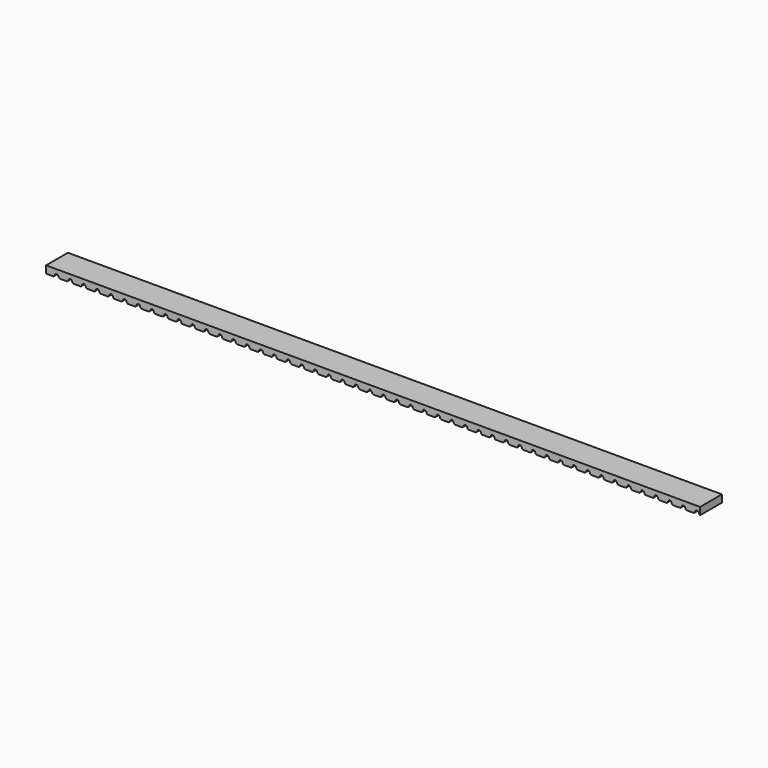
from build123d import *

# Parameters (mm, degrees)
F1_DEPTH = 10


with BuildPart() as f1:
    # F0 (on Front) → F1 (new body)
    with BuildSketch(Plane.XZ):
        with BuildLine():
            Line((-120.7614177906, 0), (-120.7614177906, -0.3))
            Line((-120.7614177906, -0.3), (-118.109419136, -0.3))
            ThreePointArc((-118.109419136, -0.3), (-117.8092630239, -0.1360718897), (-117.6130970856, 0.1440799292))
            add(Edge.make_bspline(
                [(-116.9149596381, 0.9), (-117.476127318, 0.9), (-117.6130970856, 0.1440799292)],
                knots=[0, 0, 0, 1.3242255138, 1.3242255138, 1.3242255138], degree=2, weights=[1, 0.7886951024, 1]))
            add(Edge.make_bspline(
                [(-116.1876432998, 0.144079929), (-116.3303377651, 0.9), (-116.9149596381, 0.9)],
                knots=[4.9589597931, 4.9589597931, 4.9589597931, 6.2831853072, 6.2831853072, 6.2831853072], degree=2, weights=[1, 0.7886951024, 1]))
            ThreePointArc((-116.1876432998, 0.144079929), (-116.0218996974, -0.1238064016), (-115.7607678461, -0.3))
            Line((-115.7607678461, -0.3), (-113.109419136, -0.3))
            ThreePointArc((-113.109419136, -0.3), (-112.8092630239, -0.1360718897), (-112.6130970856, 0.1440799292))
            add(Edge.make_bspline(
                [(-111.9149596381, 0.9), (-112.476127318, 0.9), (-112.6130970856, 0.1440799292)],
                knots=[0, 0, 0, 1.3242255138, 1.3242255138, 1.3242255138], degree=2, weights=[1, 0.7886951024, 1]))
            add(Edge.make_bspline(
                [(-111.1876432998, 0.144079929), (-111.3303377651, 0.9), (-111.9149596381, 0.9)],
                knots=[4.9589597931, 4.9589597931, 4.9589597931, 6.2831853072, 6.2831853072, 6.2831853072], degree=2, weights=[1, 0.7886951024, 1]))
            ThreePointArc((-111.1876432998, 0.144079929), (-111.0218996974, -0.1238064016), (-110.7607678461, -0.3))
            Line((-110.7607678461, -0.3), (-108.109419136, -0.3))
            ThreePointArc((-108.109419136, -0.3), (-107.8092630239, -0.1360718897), (-107.6130970856, 0.1440799292))
            add(Edge.make_bspline(
                [(-106.9149596381, 0.9), (-107.476127318, 0.9), (-107.6130970856, 0.1440799292)],
                knots=[0, 0, 0, 1.3242255138, 1.3242255138, 1.3242255138], degree=2, weights=[1, 0.7886951024, 1]))
            add(Edge.make_bspline(
                [(-106.1876432998, 0.144079929), (-106.3303377651, 0.9), (-106.9149596381, 0.9)],
                knots=[4.9589597931, 4.9589597931, 4.9589597931, 6.2831853072, 6.2831853072, 6.2831853072], degree=2, weights=[1, 0.7886951024, 1]))
            ThreePointArc((-106.1876432998, 0.144079929), (-106.0218996974, -0.1238064016), (-105.7607678461, -0.3))
            Line((-105.7607678461, -0.3), (-103.109419136, -0.3))
            ThreePointArc((-103.109419136, -0.3), (-102.8092630239, -0.1360718897), (-102.6130970856, 0.1440799292))
            add(Edge.make_bspline(
                [(-101.9149596381, 0.9), (-102.476127318, 0.9), (-102.6130970856, 0.1440799292)],
                knots=[0, 0, 0, 1.3242255138, 1.3242255138, 1.3242255138], degree=2, weights=[1, 0.7886951024, 1]))
            add(Edge.make_bspline(
                [(-101.1876432998, 0.144079929), (-101.3303377651, 0.9), (-101.9149596381, 0.9)],
                knots=[4.9589597931, 4.9589597931, 4.9589597931, 6.2831853072, 6.2831853072, 6.2831853072], degree=2, weights=[1, 0.7886951024, 1]))
            ThreePointArc((-101.1876432998, 0.144079929), (-101.0218996974, -0.1238064016), (-100.7607678461, -0.3))
            Line((-100.7607678461, -0.3), (-98.109419136, -0.3))
            ThreePointArc((-98.109419136, -0.3), (-97.8092630239, -0.1360718897), (-97.6130970856, 0.1440799292))
            add(Edge.make_bspline(
                [(-96.9149596381, 0.9), (-97.476127318, 0.9), (-97.6130970856, 0.1440799292)],
                knots=[0, 0, 0, 1.3242255138, 1.3242255138, 1.3242255138], degree=2, weights=[1, 0.7886951024, 1]))
            add(Edge.make_bspline(
                [(-96.1876432998, 0.144079929), (-96.3303377651, 0.9), (-96.9149596381, 0.9)],
                knots=[4.9589597931, 4.9589597931, 4.9589597931, 6.2831853072, 6.2831853072, 6.2831853072], degree=2, weights=[1, 0.7886951024, 1]))
            ThreePointArc((-96.1876432998, 0.144079929), (-96.0218996974, -0.1238064016), (-95.7607678461, -0.3))
            Line((-95.7607678461, -0.3), (-93.109419136, -0.3))
            ThreePointArc((-93.109419136, -0.3), (-92.8092630239, -0.1360718897), (-92.6130970856, 0.1440799292))
            add(Edge.make_bspline(
                [(-91.9149596381, 0.9), (-92.476127318, 0.9), (-92.6130970856, 0.1440799292)],
                knots=[0, 0, 0, 1.3242255138, 1.3242255138, 1.3242255138], degree=2, weights=[1, 0.7886951024, 1]))
            add(Edge.make_bspline(
                [(-91.1876432998, 0.144079929), (-91.3303377651, 0.9), (-91.9149596381, 0.9)],
                knots=[4.9589597931, 4.9589597931, 4.9589597931, 6.2831853072, 6.2831853072, 6.2831853072], degree=2, weights=[1, 0.7886951024, 1]))
            ThreePointArc((-91.1876432998, 0.144079929), (-91.0218996974, -0.1238064016), (-90.7607678461, -0.3))
            Line((-90.7607678461, -0.3), (-88.109419136, -0.3))
            ThreePointArc((-88.109419136, -0.3), (-87.8092630239, -0.1360718897), (-87.6130970856, 0.1440799292))
            add(Edge.make_bspline(
                [(-86.9149596381, 0.9), (-87.476127318, 0.9), (-87.6130970856, 0.1440799292)],
                knots=[0, 0, 0, 1.3242255138, 1.3242255138, 1.3242255138], degree=2, weights=[1, 0.7886951024, 1]))
            add(Edge.make_bspline(
                [(-86.1876432998, 0.144079929), (-86.3303377651, 0.9), (-86.9149596381, 0.9)],
                knots=[4.9589597931, 4.9589597931, 4.9589597931, 6.2831853072, 6.2831853072, 6.2831853072], degree=2, weights=[1, 0.7886951024, 1]))
            ThreePointArc((-86.1876432998, 0.144079929), (-86.0218996974, -0.1238064016), (-85.7607678461, -0.3))
            Line((-85.7607678461, -0.3), (-83.109419136, -0.3))
            ThreePointArc((-83.109419136, -0.3), (-82.8092630239, -0.1360718897), (-82.6130970856, 0.1440799292))
            add(Edge.make_bspline(
                [(-81.9149596381, 0.9), (-82.476127318, 0.9), (-82.6130970856, 0.1440799292)],
                knots=[0, 0, 0, 1.3242255138, 1.3242255138, 1.3242255138], degree=2, weights=[1, 0.7886951024, 1]))
            add(Edge.make_bspline(
                [(-81.1876432998, 0.144079929), (-81.3303377651, 0.9), (-81.9149596381, 0.9)],
                knots=[4.9589597931, 4.9589597931, 4.9589597931, 6.2831853072, 6.2831853072, 6.2831853072], degree=2, weights=[1, 0.7886951024, 1]))
            ThreePointArc((-81.1876432998, 0.144079929), (-81.0218996974, -0.1238064016), (-80.7607678461, -0.3))
            Line((-80.7607678461, -0.3), (-78.109419136, -0.3))
            ThreePointArc((-78.109419136, -0.3), (-77.8092630239, -0.1360718897), (-77.6130970856, 0.1440799292))
            add(Edge.make_bspline(
                [(-76.9149596381, 0.9), (-77.476127318, 0.9), (-77.6130970856, 0.1440799292)],
                knots=[0, 0, 0, 1.3242255138, 1.3242255138, 1.3242255138], degree=2, weights=[1, 0.7886951024, 1]))
            add(Edge.make_bspline(
                [(-76.1876432998, 0.144079929), (-76.3303377651, 0.9), (-76.9149596381, 0.9)],
                knots=[4.9589597931, 4.9589597931, 4.9589597931, 6.2831853072, 6.2831853072, 6.2831853072], degree=2, weights=[1, 0.7886951024, 1]))
            ThreePointArc((-76.1876432998, 0.144079929), (-76.0218996974, -0.1238064016), (-75.7607678461, -0.3))
            Line((-75.7607678461, -0.3), (-73.109419136, -0.3))
            ThreePointArc((-73.109419136, -0.3), (-72.8092630239, -0.1360718897), (-72.6130970856, 0.1440799292))
            add(Edge.make_bspline(
                [(-71.9149596381, 0.9), (-72.476127318, 0.9), (-72.6130970856, 0.1440799292)],
                knots=[0, 0, 0, 1.3242255138, 1.3242255138, 1.3242255138], degree=2, weights=[1, 0.7886951024, 1]))
            add(Edge.make_bspline(
                [(-71.1876432998, 0.144079929), (-71.3303377651, 0.9), (-71.9149596381, 0.9)],
                knots=[4.9589597931, 4.9589597931, 4.9589597931, 6.2831853072, 6.2831853072, 6.2831853072], degree=2, weights=[1, 0.7886951024, 1]))
            ThreePointArc((-71.1876432998, 0.144079929), (-71.0218996974, -0.1238064016), (-70.7607678461, -0.3))
            Line((-70.7607678461, -0.3), (-68.109419136, -0.3))
            ThreePointArc((-68.109419136, -0.3), (-67.8092630239, -0.1360718897), (-67.6130970856, 0.1440799292))
            add(Edge.make_bspline(
                [(-66.9149596381, 0.9), (-67.476127318, 0.9), (-67.6130970856, 0.1440799292)],
                knots=[0, 0, 0, 1.3242255138, 1.3242255138, 1.3242255138], degree=2, weights=[1, 0.7886951024, 1]))
            add(Edge.make_bspline(
                [(-66.1876432998, 0.144079929), (-66.3303377651, 0.9), (-66.9149596381, 0.9)],
                knots=[4.9589597931, 4.9589597931, 4.9589597931, 6.2831853072, 6.2831853072, 6.2831853072], degree=2, weights=[1, 0.7886951024, 1]))
            ThreePointArc((-66.1876432998, 0.144079929), (-66.0218996974, -0.1238064016), (-65.7607678461, -0.3))
            Line((-65.7607678461, -0.3), (-63.109419136, -0.3))
            ThreePointArc((-63.109419136, -0.3), (-62.8092630239, -0.1360718897), (-62.6130970856, 0.1440799292))
            add(Edge.make_bspline(
                [(-61.9149596381, 0.9), (-62.476127318, 0.9), (-62.6130970856, 0.1440799292)],
                knots=[0, 0, 0, 1.3242255138, 1.3242255138, 1.3242255138], degree=2, weights=[1, 0.7886951024, 1]))
            add(Edge.make_bspline(
                [(-61.1876432998, 0.144079929), (-61.3303377651, 0.9), (-61.9149596381, 0.9)],
                knots=[4.9589597931, 4.9589597931, 4.9589597931, 6.2831853072, 6.2831853072, 6.2831853072], degree=2, weights=[1, 0.7886951024, 1]))
            ThreePointArc((-61.1876432998, 0.144079929), (-61.0218996974, -0.1238064016), (-60.7607678461, -0.3))
            Line((-60.7607678461, -0.3), (-58.109419136, -0.3))
            ThreePointArc((-58.109419136, -0.3), (-57.8092630239, -0.1360718897), (-57.6130970856, 0.1440799292))
            add(Edge.make_bspline(
                [(-56.9149596381, 0.9), (-57.476127318, 0.9), (-57.6130970856, 0.1440799292)],
                knots=[0, 0, 0, 1.3242255138, 1.3242255138, 1.3242255138], degree=2, weights=[1, 0.7886951024, 1]))
            add(Edge.make_bspline(
                [(-56.1876432998, 0.144079929), (-56.3303377651, 0.9), (-56.9149596381, 0.9)],
                knots=[4.9589597931, 4.9589597931, 4.9589597931, 6.2831853072, 6.2831853072, 6.2831853072], degree=2, weights=[1, 0.7886951024, 1]))
            ThreePointArc((-56.1876432998, 0.144079929), (-56.0218996974, -0.1238064016), (-55.7607678461, -0.3))
            Line((-55.7607678461, -0.3), (-53.109419136, -0.3))
            ThreePointArc((-53.109419136, -0.3), (-52.8092630239, -0.1360718897), (-52.6130970856, 0.1440799292))
            add(Edge.make_bspline(
                [(-51.9149596381, 0.9), (-52.476127318, 0.9), (-52.6130970856, 0.1440799292)],
                knots=[0, 0, 0, 1.3242255138, 1.3242255138, 1.3242255138], degree=2, weights=[1, 0.7886951024, 1]))
            add(Edge.make_bspline(
                [(-51.1876432998, 0.144079929), (-51.3303377651, 0.9), (-51.9149596381, 0.9)],
                knots=[4.9589597931, 4.9589597931, 4.9589597931, 6.2831853072, 6.2831853072, 6.2831853072], degree=2, weights=[1, 0.7886951024, 1]))
            ThreePointArc((-51.1876432998, 0.144079929), (-51.0218996974, -0.1238064016), (-50.7607678461, -0.3))
            Line((-50.7607678461, -0.3), (-48.109419136, -0.3))
            ThreePointArc((-48.109419136, -0.3), (-47.8092630239, -0.1360718897), (-47.6130970856, 0.1440799292))
            add(Edge.make_bspline(
                [(-46.9149596381, 0.9), (-47.476127318, 0.9), (-47.6130970856, 0.1440799292)],
                knots=[0, 0, 0, 1.3242255138, 1.3242255138, 1.3242255138], degree=2, weights=[1, 0.7886951024, 1]))
            add(Edge.make_bspline(
                [(-46.1876432998, 0.144079929), (-46.3303377651, 0.9), (-46.9149596381, 0.9)],
                knots=[4.9589597931, 4.9589597931, 4.9589597931, 6.2831853072, 6.2831853072, 6.2831853072], degree=2, weights=[1, 0.7886951024, 1]))
            ThreePointArc((-46.1876432998, 0.144079929), (-46.0218996974, -0.1238064016), (-45.7607678461, -0.3))
            Line((-45.7607678461, -0.3), (-43.109419136, -0.3))
            ThreePointArc((-43.109419136, -0.3), (-42.8092630239, -0.1360718897), (-42.6130970856, 0.1440799292))
            add(Edge.make_bspline(
                [(-41.9149596381, 0.9), (-42.476127318, 0.9), (-42.6130970856, 0.1440799292)],
                knots=[0, 0, 0, 1.3242255138, 1.3242255138, 1.3242255138], degree=2, weights=[1, 0.7886951024, 1]))
            add(Edge.make_bspline(
                [(-41.1876432998, 0.144079929), (-41.3303377651, 0.9), (-41.9149596381, 0.9)],
                knots=[4.9589597931, 4.9589597931, 4.9589597931, 6.2831853072, 6.2831853072, 6.2831853072], degree=2, weights=[1, 0.7886951024, 1]))
            ThreePointArc((-41.1876432998, 0.144079929), (-41.0218996974, -0.1238064016), (-40.7607678461, -0.3))
            Line((-40.7607678461, -0.3), (-38.109419136, -0.3))
            ThreePointArc((-38.109419136, -0.3), (-37.8092630239, -0.1360718897), (-37.6130970856, 0.1440799292))
            add(Edge.make_bspline(
                [(-36.9149596381, 0.9), (-37.476127318, 0.9), (-37.6130970856, 0.1440799292)],
                knots=[0, 0, 0, 1.3242255138, 1.3242255138, 1.3242255138], degree=2, weights=[1, 0.7886951024, 1]))
            add(Edge.make_bspline(
                [(-36.1876432998, 0.144079929), (-36.3303377651, 0.9), (-36.9149596381, 0.9)],
                knots=[4.9589597931, 4.9589597931, 4.9589597931, 6.2831853072, 6.2831853072, 6.2831853072], degree=2, weights=[1, 0.7886951024, 1]))
            ThreePointArc((-36.1876432998, 0.144079929), (-36.0218996974, -0.1238064016), (-35.7607678461, -0.3))
            Line((-35.7607678461, -0.3), (-33.109419136, -0.3))
            ThreePointArc((-33.109419136, -0.3), (-32.8092630239, -0.1360718897), (-32.6130970856, 0.1440799292))
            add(Edge.make_bspline(
                [(-31.9149596381, 0.9), (-32.476127318, 0.9), (-32.6130970856, 0.1440799292)],
                knots=[0, 0, 0, 1.3242255138, 1.3242255138, 1.3242255138], degree=2, weights=[1, 0.7886951024, 1]))
            add(Edge.make_bspline(
                [(-31.1876432998, 0.144079929), (-31.3303377651, 0.9), (-31.9149596381, 0.9)],
                knots=[4.9589597931, 4.9589597931, 4.9589597931, 6.2831853072, 6.2831853072, 6.2831853072], degree=2, weights=[1, 0.7886951024, 1]))
            ThreePointArc((-31.1876432998, 0.144079929), (-31.0218996974, -0.1238064016), (-30.7607678461, -0.3))
            Line((-30.7607678461, -0.3), (-28.109419136, -0.3))
            ThreePointArc((-28.109419136, -0.3), (-27.8092630239, -0.1360718897), (-27.6130970856, 0.1440799292))
            add(Edge.make_bspline(
                [(-26.9149596381, 0.9), (-27.476127318, 0.9), (-27.6130970856, 0.1440799292)],
                knots=[0, 0, 0, 1.3242255138, 1.3242255138, 1.3242255138], degree=2, weights=[1, 0.7886951024, 1]))
            add(Edge.make_bspline(
                [(-26.1876432998, 0.144079929), (-26.3303377651, 0.9), (-26.9149596381, 0.9)],
                knots=[4.9589597931, 4.9589597931, 4.9589597931, 6.2831853072, 6.2831853072, 6.2831853072], degree=2, weights=[1, 0.7886951024, 1]))
            ThreePointArc((-26.1876432998, 0.144079929), (-26.0218996974, -0.1238064016), (-25.7607678461, -0.3))
            Line((-25.7607678461, -0.3), (-23.109419136, -0.3))
            ThreePointArc((-23.109419136, -0.3), (-22.8092630239, -0.1360718897), (-22.6130970856, 0.1440799292))
            add(Edge.make_bspline(
                [(-21.9149596381, 0.9), (-22.476127318, 0.9), (-22.6130970856, 0.1440799292)],
                knots=[0, 0, 0, 1.3242255138, 1.3242255138, 1.3242255138], degree=2, weights=[1, 0.7886951024, 1]))
            add(Edge.make_bspline(
                [(-21.1876432998, 0.144079929), (-21.3303377651, 0.9), (-21.9149596381, 0.9)],
                knots=[4.9589597931, 4.9589597931, 4.9589597931, 6.2831853072, 6.2831853072, 6.2831853072], degree=2, weights=[1, 0.7886951024, 1]))
            ThreePointArc((-21.1876432998, 0.144079929), (-21.0218996974, -0.1238064016), (-20.7607678461, -0.3))
            Line((-20.7607678461, -0.3), (-18.109419136, -0.3))
            ThreePointArc((-18.109419136, -0.3), (-17.8092630239, -0.1360718897), (-17.6130970856, 0.1440799292))
            add(Edge.make_bspline(
                [(-16.9149596381, 0.9), (-17.476127318, 0.9), (-17.6130970856, 0.1440799292)],
                knots=[0, 0, 0, 1.3242255138, 1.3242255138, 1.3242255138], degree=2, weights=[1, 0.7886951024, 1]))
            add(Edge.make_bspline(
                [(-16.1876432998, 0.144079929), (-16.3303377651, 0.9), (-16.9149596381, 0.9)],
                knots=[4.9589597931, 4.9589597931, 4.9589597931, 6.2831853072, 6.2831853072, 6.2831853072], degree=2, weights=[1, 0.7886951024, 1]))
            ThreePointArc((-16.1876432998, 0.144079929), (-16.0218996974, -0.1238064016), (-15.7607678461, -0.3))
            Line((-15.7607678461, -0.3), (-13.109419136, -0.3))
            ThreePointArc((-13.109419136, -0.3), (-12.8092630239, -0.1360718897), (-12.6130970856, 0.1440799292))
            add(Edge.make_bspline(
                [(-11.9149596381, 0.9), (-12.476127318, 0.9), (-12.6130970856, 0.1440799292)],
                knots=[0, 0, 0, 1.3242255138, 1.3242255138, 1.3242255138], degree=2, weights=[1, 0.7886951024, 1]))
            add(Edge.make_bspline(
                [(-11.1876432998, 0.144079929), (-11.3303377651, 0.9), (-11.9149596381, 0.9)],
                knots=[4.9589597931, 4.9589597931, 4.9589597931, 6.2831853072, 6.2831853072, 6.2831853072], degree=2, weights=[1, 0.7886951024, 1]))
            ThreePointArc((-11.1876432998, 0.144079929), (-11.0218996974, -0.1238064016), (-10.7607678461, -0.3))
            Line((-10.7607678461, -0.3), (-8.109419136, -0.3))
            ThreePointArc((-8.109419136, -0.3), (-7.8092630239, -0.1360718897), (-7.6130970856, 0.1440799292))
            add(Edge.make_bspline(
                [(-6.9149596381, 0.9), (-7.476127318, 0.9), (-7.6130970856, 0.1440799292)],
                knots=[0, 0, 0, 1.3242255138, 1.3242255138, 1.3242255138], degree=2, weights=[1, 0.7886951024, 1]))
            add(Edge.make_bspline(
                [(-6.1876432998, 0.144079929), (-6.3303377651, 0.9), (-6.9149596381, 0.9)],
                knots=[4.9589597931, 4.9589597931, 4.9589597931, 6.2831853072, 6.2831853072, 6.2831853072], degree=2, weights=[1, 0.7886951024, 1]))
            ThreePointArc((-6.1876432998, 0.144079929), (-6.0218996974, -0.1238064016), (-5.7607678461, -0.3))
            Line((-5.7607678461, -0.3), (-3.109419136, -0.3))
            ThreePointArc((-3.109419136, -0.3), (-2.8092630239, -0.1360718897), (-2.6130970856, 0.1440799292))
            add(Edge.make_bspline(
                [(-1.9149596381, 0.9), (-2.476127318, 0.9), (-2.6130970856, 0.1440799292)],
                knots=[0, 0, 0, 1.3242255138, 1.3242255138, 1.3242255138], degree=2, weights=[1, 0.7886951024, 1]))
            add(Edge.make_bspline(
                [(-1.1876432998, 0.144079929), (-1.3303377651, 0.9), (-1.9149596381, 0.9)],
                knots=[4.9589597931, 4.9589597931, 4.9589597931, 6.2831853072, 6.2831853072, 6.2831853072], degree=2, weights=[1, 0.7886951024, 1]))
            ThreePointArc((-1.1876432998, 0.144079929), (-1.0218996974, -0.1238064016), (-0.7607678461, -0.3))
            Line((-0.7607678461, -0.3), (1.890580864, -0.3))
            ThreePointArc((1.890580864, -0.3), (2.1907369761, -0.1360718897), (2.3869029144, 0.1440799292))
            add(Edge.make_bspline(
                [(3.0850403619, 0.9), (2.523872682, 0.9), (2.3869029144, 0.1440799292)],
                knots=[0, 0, 0, 1.3242255138, 1.3242255138, 1.3242255138], degree=2, weights=[1, 0.7886951024, 1]))
            add(Edge.make_bspline(
                [(3.8123567002, 0.144079929), (3.6696622349, 0.9), (3.0850403619, 0.9)],
                knots=[4.9589597931, 4.9589597931, 4.9589597931, 6.2831853072, 6.2831853072, 6.2831853072], degree=2, weights=[1, 0.7886951024, 1]))
            ThreePointArc((3.8123567002, 0.144079929), (3.9781003026, -0.1238064016), (4.2392321539, -0.3))
            Line((4.2392321539, -0.3), (6.890580864, -0.3))
            ThreePointArc((6.890580864, -0.3), (7.1907369761, -0.1360718897), (7.3869029144, 0.1440799292))
            add(Edge.make_bspline(
                [(8.0850403619, 0.9), (7.523872682, 0.9), (7.3869029144, 0.1440799292)],
                knots=[0, 0, 0, 1.3242255138, 1.3242255138, 1.3242255138], degree=2, weights=[1, 0.7886951024, 1]))
            add(Edge.make_bspline(
                [(8.8123567002, 0.144079929), (8.6696622349, 0.9), (8.0850403619, 0.9)],
                knots=[4.9589597931, 4.9589597931, 4.9589597931, 6.2831853072, 6.2831853072, 6.2831853072], degree=2, weights=[1, 0.7886951024, 1]))
            ThreePointArc((8.8123567002, 0.144079929), (8.9781003026, -0.1238064016), (9.2392321539, -0.3))
            Line((9.2392321539, -0.3), (11.890580864, -0.3))
            ThreePointArc((11.890580864, -0.3), (12.1907369761, -0.1360718897), (12.3869029144, 0.1440799292))
            add(Edge.make_bspline(
                [(13.0850403619, 0.9), (12.523872682, 0.9), (12.3869029144, 0.1440799292)],
                knots=[0, 0, 0, 1.3242255138, 1.3242255138, 1.3242255138], degree=2, weights=[1, 0.7886951024, 1]))
            add(Edge.make_bspline(
                [(13.8123567002, 0.144079929), (13.6696622349, 0.9), (13.0850403619, 0.9)],
                knots=[4.9589597931, 4.9589597931, 4.9589597931, 6.2831853072, 6.2831853072, 6.2831853072], degree=2, weights=[1, 0.7886951024, 1]))
            ThreePointArc((13.8123567002, 0.144079929), (13.9781003026, -0.1238064016), (14.2392321539, -0.3))
            Line((14.2392321539, -0.3), (16.890580864, -0.3))
            ThreePointArc((16.890580864, -0.3), (17.1907369761, -0.1360718897), (17.3869029144, 0.1440799292))
            add(Edge.make_bspline(
                [(18.0850403619, 0.9), (17.523872682, 0.9), (17.3869029144, 0.1440799292)],
                knots=[0, 0, 0, 1.3242255138, 1.3242255138, 1.3242255138], degree=2, weights=[1, 0.7886951024, 1]))
            add(Edge.make_bspline(
                [(18.8123567002, 0.144079929), (18.6696622349, 0.9), (18.0850403619, 0.9)],
                knots=[4.9589597931, 4.9589597931, 4.9589597931, 6.2831853072, 6.2831853072, 6.2831853072], degree=2, weights=[1, 0.7886951024, 1]))
            ThreePointArc((18.8123567002, 0.144079929), (18.9781003026, -0.1238064016), (19.2392321539, -0.3))
            Line((19.2392321539, -0.3), (21.890580864, -0.3))
            ThreePointArc((21.890580864, -0.3), (22.1907369761, -0.1360718897), (22.3869029144, 0.1440799292))
            add(Edge.make_bspline(
                [(23.0850403619, 0.9), (22.523872682, 0.9), (22.3869029144, 0.1440799292)],
                knots=[0, 0, 0, 1.3242255138, 1.3242255138, 1.3242255138], degree=2, weights=[1, 0.7886951024, 1]))
            add(Edge.make_bspline(
                [(23.8123567002, 0.144079929), (23.6696622349, 0.9), (23.0850403619, 0.9)],
                knots=[4.9589597931, 4.9589597931, 4.9589597931, 6.2831853072, 6.2831853072, 6.2831853072], degree=2, weights=[1, 0.7886951024, 1]))
            ThreePointArc((23.8123567002, 0.144079929), (23.9781003026, -0.1238064016), (24.2392321539, -0.3))
            Line((24.2392321539, -0.3), (26.890580864, -0.3))
            ThreePointArc((26.890580864, -0.3), (27.1907369761, -0.1360718897), (27.3869029144, 0.1440799292))
            add(Edge.make_bspline(
                [(28.0850403619, 0.9), (27.523872682, 0.9), (27.3869029144, 0.1440799292)],
                knots=[0, 0, 0, 1.3242255138, 1.3242255138, 1.3242255138], degree=2, weights=[1, 0.7886951024, 1]))
            add(Edge.make_bspline(
                [(28.8123567002, 0.144079929), (28.6696622349, 0.9), (28.0850403619, 0.9)],
                knots=[4.9589597931, 4.9589597931, 4.9589597931, 6.2831853072, 6.2831853072, 6.2831853072], degree=2, weights=[1, 0.7886951024, 1]))
            ThreePointArc((28.8123567002, 0.144079929), (28.9781003026, -0.1238064016), (29.2392321539, -0.3))
            Line((29.2392321539, -0.3), (31.890580864, -0.3))
            ThreePointArc((31.890580864, -0.3), (32.1907369761, -0.1360718897), (32.3869029144, 0.1440799292))
            add(Edge.make_bspline(
                [(33.0850403619, 0.9), (32.523872682, 0.9), (32.3869029144, 0.1440799292)],
                knots=[0, 0, 0, 1.3242255138, 1.3242255138, 1.3242255138], degree=2, weights=[1, 0.7886951024, 1]))
            add(Edge.make_bspline(
                [(33.8123567002, 0.144079929), (33.6696622349, 0.9), (33.0850403619, 0.9)],
                knots=[4.9589597931, 4.9589597931, 4.9589597931, 6.2831853072, 6.2831853072, 6.2831853072], degree=2, weights=[1, 0.7886951024, 1]))
            ThreePointArc((33.8123567002, 0.144079929), (33.9781003026, -0.1238064016), (34.2392321539, -0.3))
            Line((34.2392321539, -0.3), (36.890580864, -0.3))
            ThreePointArc((36.890580864, -0.3), (37.1907369761, -0.1360718897), (37.3869029144, 0.1440799292))
            add(Edge.make_bspline(
                [(38.0850403619, 0.9), (37.523872682, 0.9), (37.3869029144, 0.1440799292)],
                knots=[0, 0, 0, 1.3242255138, 1.3242255138, 1.3242255138], degree=2, weights=[1, 0.7886951024, 1]))
            add(Edge.make_bspline(
                [(38.8123567002, 0.144079929), (38.6696622349, 0.9), (38.0850403619, 0.9)],
                knots=[4.9589597931, 4.9589597931, 4.9589597931, 6.2831853072, 6.2831853072, 6.2831853072], degree=2, weights=[1, 0.7886951024, 1]))
            ThreePointArc((38.8123567002, 0.144079929), (38.9781003026, -0.1238064016), (39.2392321539, -0.3))
            Line((39.2392321539, -0.3), (41.890580864, -0.3))
            ThreePointArc((41.890580864, -0.3), (42.1907369761, -0.1360718897), (42.3869029144, 0.1440799292))
            add(Edge.make_bspline(
                [(43.0850403619, 0.9), (42.523872682, 0.9), (42.3869029144, 0.1440799292)],
                knots=[0, 0, 0, 1.3242255138, 1.3242255138, 1.3242255138], degree=2, weights=[1, 0.7886951024, 1]))
            add(Edge.make_bspline(
                [(43.8123567002, 0.144079929), (43.6696622349, 0.9), (43.0850403619, 0.9)],
                knots=[4.9589597931, 4.9589597931, 4.9589597931, 6.2831853072, 6.2831853072, 6.2831853072], degree=2, weights=[1, 0.7886951024, 1]))
            ThreePointArc((43.8123567002, 0.144079929), (43.9781003026, -0.1238064016), (44.2392321539, -0.3))
            Line((44.2392321539, -0.3), (46.890580864, -0.3))
            ThreePointArc((46.890580864, -0.3), (47.1907369761, -0.1360718897), (47.3869029144, 0.1440799292))
            add(Edge.make_bspline(
                [(48.0850403619, 0.9), (47.523872682, 0.9), (47.3869029144, 0.1440799292)],
                knots=[0, 0, 0, 1.3242255138, 1.3242255138, 1.3242255138], degree=2, weights=[1, 0.7886951024, 1]))
            add(Edge.make_bspline(
                [(48.8123567002, 0.144079929), (48.6696622349, 0.9), (48.0850403619, 0.9)],
                knots=[4.9589597931, 4.9589597931, 4.9589597931, 6.2831853072, 6.2831853072, 6.2831853072], degree=2, weights=[1, 0.7886951024, 1]))
            ThreePointArc((48.8123567002, 0.144079929), (48.9781003026, -0.1238064016), (49.2392321539, -0.3))
            Line((49.2392321539, -0.3), (51.890580864, -0.3))
            ThreePointArc((51.890580864, -0.3), (52.1907369761, -0.1360718897), (52.3869029144, 0.1440799292))
            add(Edge.make_bspline(
                [(53.0850403619, 0.9), (52.523872682, 0.9), (52.3869029144, 0.1440799292)],
                knots=[0, 0, 0, 1.3242255138, 1.3242255138, 1.3242255138], degree=2, weights=[1, 0.7886951024, 1]))
            add(Edge.make_bspline(
                [(53.8123567002, 0.144079929), (53.6696622349, 0.9), (53.0850403619, 0.9)],
                knots=[4.9589597931, 4.9589597931, 4.9589597931, 6.2831853072, 6.2831853072, 6.2831853072], degree=2, weights=[1, 0.7886951024, 1]))
            ThreePointArc((53.8123567002, 0.144079929), (53.9781003026, -0.1238064016), (54.2392321539, -0.3))
            Line((54.2392321539, -0.3), (56.890580864, -0.3))
            ThreePointArc((56.890580864, -0.3), (57.1907369761, -0.1360718897), (57.3869029144, 0.1440799292))
            add(Edge.make_bspline(
                [(58.0850403619, 0.9), (57.523872682, 0.9), (57.3869029144, 0.1440799292)],
                knots=[0, 0, 0, 1.3242255138, 1.3242255138, 1.3242255138], degree=2, weights=[1, 0.7886951024, 1]))
            add(Edge.make_bspline(
                [(58.8123567002, 0.144079929), (58.6696622349, 0.9), (58.0850403619, 0.9)],
                knots=[4.9589597931, 4.9589597931, 4.9589597931, 6.2831853072, 6.2831853072, 6.2831853072], degree=2, weights=[1, 0.7886951024, 1]))
            ThreePointArc((58.8123567002, 0.144079929), (58.9781003026, -0.1238064016), (59.2392321539, -0.3))
            Line((59.2392321539, -0.3), (61.890580864, -0.3))
            ThreePointArc((61.890580864, -0.3), (62.1907369761, -0.1360718897), (62.3869029144, 0.1440799292))
            add(Edge.make_bspline(
                [(63.0850403619, 0.9), (62.523872682, 0.9), (62.3869029144, 0.1440799292)],
                knots=[0, 0, 0, 1.3242255138, 1.3242255138, 1.3242255138], degree=2, weights=[1, 0.7886951024, 1]))
            add(Edge.make_bspline(
                [(63.8123567002, 0.144079929), (63.6696622349, 0.9), (63.0850403619, 0.9)],
                knots=[4.9589597931, 4.9589597931, 4.9589597931, 6.2831853072, 6.2831853072, 6.2831853072], degree=2, weights=[1, 0.7886951024, 1]))
            ThreePointArc((63.8123567002, 0.144079929), (63.9781003026, -0.1238064016), (64.2392321539, -0.3))
            Line((64.2392321539, -0.3), (66.890580864, -0.3))
            ThreePointArc((66.890580864, -0.3), (67.1907369761, -0.1360718897), (67.3869029144, 0.1440799292))
            add(Edge.make_bspline(
                [(68.0850403619, 0.9), (67.523872682, 0.9), (67.3869029144, 0.1440799292)],
                knots=[0, 0, 0, 1.3242255138, 1.3242255138, 1.3242255138], degree=2, weights=[1, 0.7886951024, 1]))
            add(Edge.make_bspline(
                [(68.8123567002, 0.144079929), (68.6696622349, 0.9), (68.0850403619, 0.9)],
                knots=[4.9589597931, 4.9589597931, 4.9589597931, 6.2831853072, 6.2831853072, 6.2831853072], degree=2, weights=[1, 0.7886951024, 1]))
            ThreePointArc((68.8123567002, 0.144079929), (68.9781003026, -0.1238064016), (69.2392321539, -0.3))
            Line((69.2392321539, -0.3), (71.890580864, -0.3))
            ThreePointArc((71.890580864, -0.3), (72.1907369761, -0.1360718897), (72.3869029144, 0.1440799292))
            add(Edge.make_bspline(
                [(73.0850403619, 0.9), (72.523872682, 0.9), (72.3869029144, 0.1440799292)],
                knots=[0, 0, 0, 1.3242255138, 1.3242255138, 1.3242255138], degree=2, weights=[1, 0.7886951024, 1]))
            add(Edge.make_bspline(
                [(73.8123567002, 0.144079929), (73.6696622349, 0.9), (73.0850403619, 0.9)],
                knots=[4.9589597931, 4.9589597931, 4.9589597931, 6.2831853072, 6.2831853072, 6.2831853072], degree=2, weights=[1, 0.7886951024, 1]))
            ThreePointArc((73.8123567002, 0.144079929), (73.9781003026, -0.1238064016), (74.2392321539, -0.3))
            Line((74.2392321539, -0.3), (76.890580864, -0.3))
            ThreePointArc((76.890580864, -0.3), (77.1907369761, -0.1360718897), (77.3869029144, 0.1440799292))
            add(Edge.make_bspline(
                [(78.0850403619, 0.9), (77.523872682, 0.9), (77.3869029144, 0.1440799292)],
                knots=[0, 0, 0, 1.3242255138, 1.3242255138, 1.3242255138], degree=2, weights=[1, 0.7886951024, 1]))
            add(Edge.make_bspline(
                [(78.8123567002, 0.144079929), (78.6696622349, 0.9), (78.0850403619, 0.9)],
                knots=[4.9589597931, 4.9589597931, 4.9589597931, 6.2831853072, 6.2831853072, 6.2831853072], degree=2, weights=[1, 0.7886951024, 1]))
            ThreePointArc((78.8123567002, 0.144079929), (78.9781003026, -0.1238064016), (79.2392321539, -0.3))
            Line((79.2392321539, -0.3), (81.890580864, -0.3))
            ThreePointArc((81.890580864, -0.3), (82.1907369761, -0.1360718897), (82.3869029144, 0.1440799292))
            add(Edge.make_bspline(
                [(83.0850403619, 0.9), (82.523872682, 0.9), (82.3869029144, 0.1440799292)],
                knots=[0, 0, 0, 1.3242255138, 1.3242255138, 1.3242255138], degree=2, weights=[1, 0.7886951024, 1]))
            add(Edge.make_bspline(
                [(83.8123567002, 0.144079929), (83.6696622349, 0.9), (83.0850403619, 0.9)],
                knots=[4.9589597931, 4.9589597931, 4.9589597931, 6.2831853072, 6.2831853072, 6.2831853072], degree=2, weights=[1, 0.7886951024, 1]))
            ThreePointArc((83.8123567002, 0.144079929), (83.9781003026, -0.1238064016), (84.2392321539, -0.3))
            Line((84.2392321539, -0.3), (86.890580864, -0.3))
            ThreePointArc((86.890580864, -0.3), (87.1907369761, -0.1360718897), (87.3869029144, 0.1440799292))
            add(Edge.make_bspline(
                [(88.0850403619, 0.9), (87.523872682, 0.9), (87.3869029144, 0.1440799292)],
                knots=[0, 0, 0, 1.3242255138, 1.3242255138, 1.3242255138], degree=2, weights=[1, 0.7886951024, 1]))
            add(Edge.make_bspline(
                [(88.8123567002, 0.144079929), (88.6696622349, 0.9), (88.0850403619, 0.9)],
                knots=[4.9589597931, 4.9589597931, 4.9589597931, 6.2831853072, 6.2831853072, 6.2831853072], degree=2, weights=[1, 0.7886951024, 1]))
            ThreePointArc((88.8123567002, 0.144079929), (88.9781003026, -0.1238064016), (89.2392321539, -0.3))
            Line((89.2392321539, -0.3), (91.890580864, -0.3))
            ThreePointArc((91.890580864, -0.3), (92.1907369761, -0.1360718897), (92.3869029144, 0.1440799292))
            add(Edge.make_bspline(
                [(93.0850403619, 0.9), (92.523872682, 0.9), (92.3869029144, 0.1440799292)],
                knots=[0, 0, 0, 1.3242255138, 1.3242255138, 1.3242255138], degree=2, weights=[1, 0.7886951024, 1]))
            add(Edge.make_bspline(
                [(93.8123567002, 0.144079929), (93.6696622349, 0.9), (93.0850403619, 0.9)],
                knots=[4.9589597931, 4.9589597931, 4.9589597931, 6.2831853072, 6.2831853072, 6.2831853072], degree=2, weights=[1, 0.7886951024, 1]))
            ThreePointArc((93.8123567002, 0.144079929), (93.9781003026, -0.1238064016), (94.2392321539, -0.3))
            Line((94.2392321539, -0.3), (96.890580864, -0.3))
            ThreePointArc((96.890580864, -0.3), (97.1907369761, -0.1360718897), (97.3869029144, 0.1440799292))
            add(Edge.make_bspline(
                [(98.0850403619, 0.9), (97.523872682, 0.9), (97.3869029144, 0.1440799292)],
                knots=[0, 0, 0, 1.3242255138, 1.3242255138, 1.3242255138], degree=2, weights=[1, 0.7886951024, 1]))
            add(Edge.make_bspline(
                [(98.8123567002, 0.144079929), (98.6696622349, 0.9), (98.0850403619, 0.9)],
                knots=[4.9589597931, 4.9589597931, 4.9589597931, 6.2831853072, 6.2831853072, 6.2831853072], degree=2, weights=[1, 0.7886951024, 1]))
            ThreePointArc((98.8123567002, 0.144079929), (98.9781003026, -0.1238064016), (99.2392321539, -0.3))
            Line((99.2392321539, -0.3), (101.890580864, -0.3))
            ThreePointArc((101.890580864, -0.3), (102.1907369761, -0.1360718897), (102.3869029144, 0.1440799292))
            add(Edge.make_bspline(
                [(103.0850403619, 0.9), (102.523872682, 0.9), (102.3869029144, 0.1440799292)],
                knots=[0, 0, 0, 1.3242255138, 1.3242255138, 1.3242255138], degree=2, weights=[1, 0.7886951024, 1]))
            add(Edge.make_bspline(
                [(103.8123567002, 0.144079929), (103.6696622349, 0.9), (103.0850403619, 0.9)],
                knots=[4.9589597931, 4.9589597931, 4.9589597931, 6.2831853072, 6.2831853072, 6.2831853072], degree=2, weights=[1, 0.7886951024, 1]))
            ThreePointArc((103.8123567002, 0.144079929), (103.9781003026, -0.1238064016), (104.2392321539, -0.3))
            Line((104.2392321539, -0.3), (106.890580864, -0.3))
            ThreePointArc((106.890580864, -0.3), (107.1907369761, -0.1360718897), (107.3869029144, 0.1440799292))
            add(Edge.make_bspline(
                [(108.0850403619, 0.9), (107.523872682, 0.9), (107.3869029144, 0.1440799292)],
                knots=[0, 0, 0, 1.3242255138, 1.3242255138, 1.3242255138], degree=2, weights=[1, 0.7886951024, 1]))
            add(Edge.make_bspline(
                [(108.8123567002, 0.144079929), (108.6696622349, 0.9), (108.0850403619, 0.9)],
                knots=[4.9589597931, 4.9589597931, 4.9589597931, 6.2831853072, 6.2831853072, 6.2831853072], degree=2, weights=[1, 0.7886951024, 1]))
            ThreePointArc((108.8123567002, 0.144079929), (108.9781003026, -0.1238064016), (109.2392321539, -0.3))
            Line((109.2392321539, -0.3), (111.890580864, -0.3))
            ThreePointArc((111.890580864, -0.3), (112.1907369761, -0.1360718897), (112.3869029144, 0.1440799292))
            add(Edge.make_bspline(
                [(113.0850403619, 0.9), (112.523872682, 0.9), (112.3869029144, 0.1440799292)],
                knots=[0, 0, 0, 1.3242255138, 1.3242255138, 1.3242255138], degree=2, weights=[1, 0.7886951024, 1]))
            add(Edge.make_bspline(
                [(113.8123567002, 0.144079929), (113.6696622349, 0.9), (113.0850403619, 0.9)],
                knots=[4.9589597931, 4.9589597931, 4.9589597931, 6.2831853072, 6.2831853072, 6.2831853072], degree=2, weights=[1, 0.7886951024, 1]))
            ThreePointArc((113.8123567002, 0.144079929), (113.9781003026, -0.1238064016), (114.2392321539, -0.3))
            Line((114.2392321539, -0.3), (116.890580864, -0.3))
            ThreePointArc((116.890580864, -0.3), (117.1907369761, -0.1360718897), (117.3869029144, 0.1440799292))
            add(Edge.make_bspline(
                [(118.0850403619, 0.9), (117.523872682, 0.9), (117.3869029144, 0.1440799292)],
                knots=[0, 0, 0, 1.3242255138, 1.3242255138, 1.3242255138], degree=2, weights=[1, 0.7886951024, 1]))
            add(Edge.make_bspline(
                [(118.8123567002, 0.144079929), (118.6696622349, 0.9), (118.0850403619, 0.9)],
                knots=[4.9589597931, 4.9589597931, 4.9589597931, 6.2831853072, 6.2831853072, 6.2831853072], degree=2, weights=[1, 0.7886951024, 1]))
            ThreePointArc((118.8123567002, 0.144079929), (118.9781003026, -0.1238064016), (119.2392321539, -0.3))
            Line((119.2392321539, -0.3), (119.2392321539, 0))
            Line((119.2392321539, 0), (119.2392321539, 2.4))
            Line((119.2392321539, 2.4), (-120.7614177906, 2.4))
            Line((-120.7614177906, 2.4), (-120.7614177906, 0))
        make_face()
    extrude(amount=F1_DEPTH)


solid = f1.part
